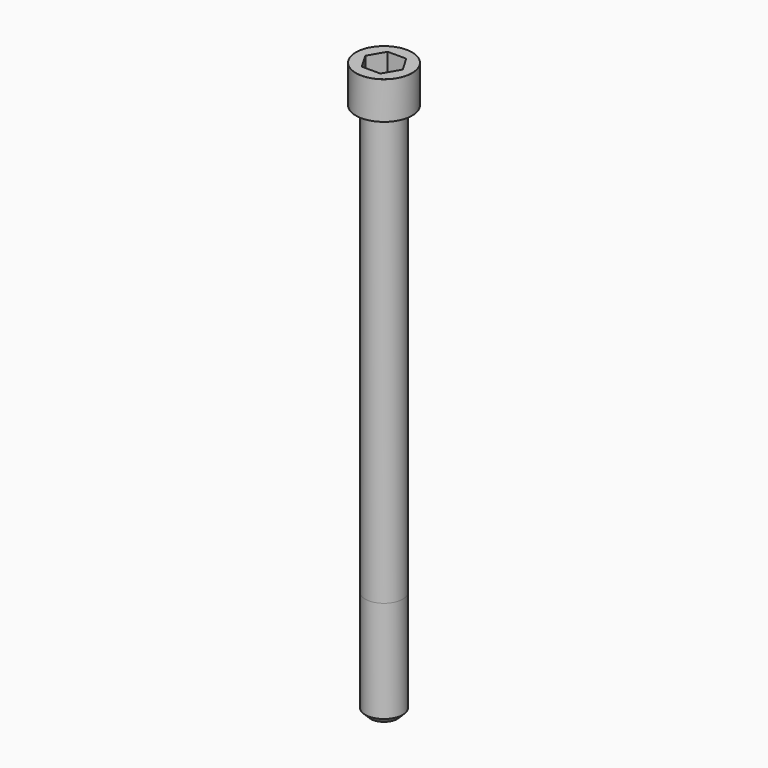
from build123d import *

# Parameters (mm, degrees)
POCKET_DEPTH = 12.07


with BuildPart() as part:
    # Sketch → Revolve (revolve)
    with BuildSketch(Plane.YZ):
        with BuildLine():
            Line((6.999, 0), (10.5, 0))
            Line((10.5, 0), (10.5, 13.97229))
            ThreePointArc((10.5, 13.97229), (10.491884, 13.991884), (10.47229, 14))
            Line((10.47229, 14), (0, 14))
            Line((0, -200), (0, 14))
            Line((5, -200), (0, -200))
            Line((7, -198), (5, -200))
            Line((7, -160), (7, -198))
            Line((6.999, 0), (7, -160))
        make_face()
    revolve(axis=Axis((0, 0, 0), (0, 0, 1)))

    # Sketch001 → Pocket (cut)
    with BuildSketch(Plane.XY.offset(14)):
        Polygon((6.968618, 0), (3.484309, 6.035), (-3.484309, 6.035), (-6.968618, 0), (-3.484309, -6.035), (3.484309, -6.035), align=None)
    extrude(amount=-POCKET_DEPTH, mode=Mode.SUBTRACT)


solid = part.part
